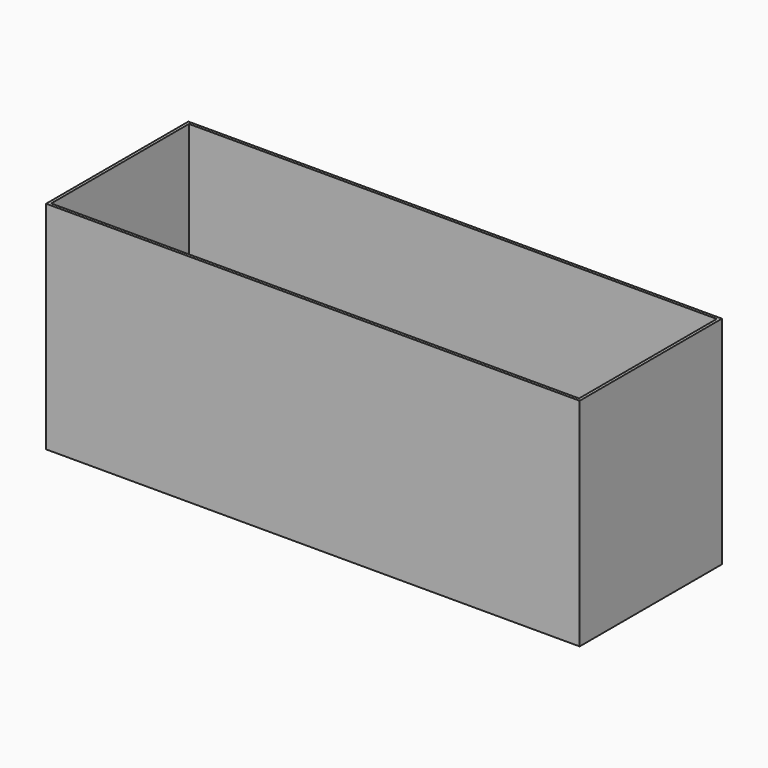
from build123d import *

# Parameters (mm, degrees)
F0_W     = 1500
F0_H     = 500
F0_W_2   = 1484
F0_H_2   = 484
F1_DEPTH = 8
F2_DEPTH = 600


with BuildPart() as f1:
    # F0 (on Top) → F1 (new body)
    with BuildSketch(Plane.XY):
        Rectangle(F0_W, F0_H)
        Rectangle(F0_W_2, F0_H_2, mode=Mode.SUBTRACT)
        Rectangle(F0_W_2, F0_H_2)
    extrude(amount=-F1_DEPTH)

    # F0 (on Top) → F2 (join)
    with BuildSketch(Plane.XY):
        Rectangle(F0_W, F0_H)
        Rectangle(F0_W_2, F0_H_2, mode=Mode.SUBTRACT)
    extrude(amount=F2_DEPTH)


solid = f1.part
